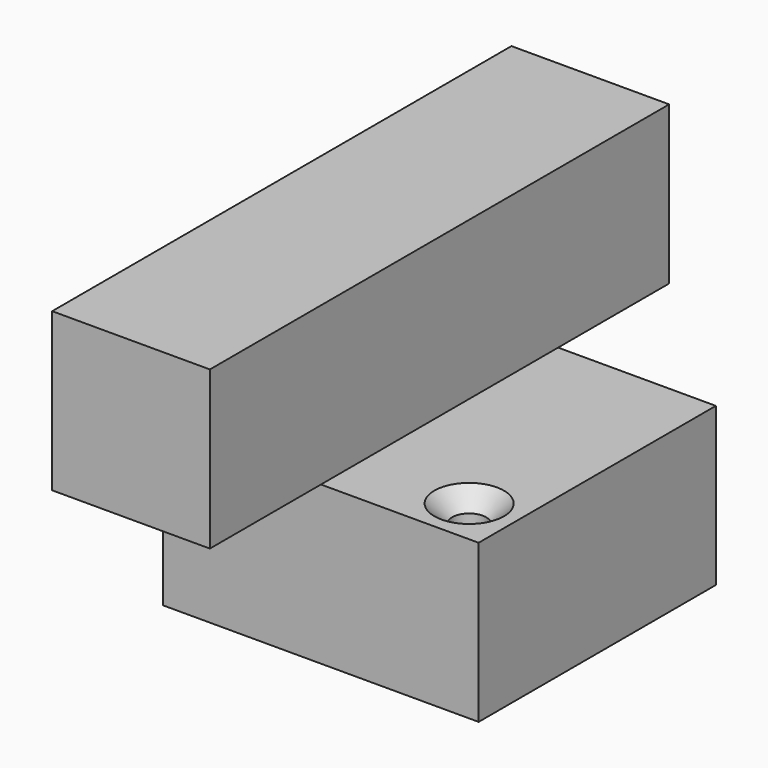
from build123d import *

# Parameters (mm, degrees)
F1_W           = 25.4
F1_H           = 25.4
F3_DEPTH       = 46.228
F4_DEPTH       = 23.876
F6_D           = 11
F6_DEPTH       = 12.7
F6_CSINK_D     = 22.4
F6_CSINK_ANGLE = 90
F6_TIP         = 3.3047334047
F8_D           = 5.5
F8_DEPTH       = 12.7
F8_CSINK_D     = 11.2
F8_CSINK_ANGLE = 90
F8_TIP         = 1.6523667023


with BuildPart() as f3:
    # F1 (on face) → F3 (new body, symmetric)
    with BuildSketch(Plane.XZ):
        with Locations((-12.7, 25.4)):
            Rectangle(F1_W, F1_H)
    extrude(amount=F3_DEPTH, both=True)

    # F2 (on face) → F4 (join, symmetric)
    with BuildSketch(Plane.XZ):
        Polygon((0, 12.7), (-25.4, 12.7), (-25.4, -12.7), (25.4, -12.7), (25.4, 12.7), align=None)
    extrude(amount=F4_DEPTH, both=True)

    # F6
    with Locations(Plane(origin=(0, 0, -12.7), x_dir=(1, 0, 0), z_dir=(0, 0, -1))):
        with Locations((0, -1.524)):
            CounterSinkHole(F6_D / 2, F6_CSINK_D / 2, depth=F6_DEPTH, counter_sink_angle=F6_CSINK_ANGLE)
            with Locations((0, 0, -(F6_DEPTH + F6_TIP / 2))):  # 118° drill point
                Cone(0, F6_D / 2, F6_TIP, mode=Mode.SUBTRACT)

    # F8
    with Locations(Plane.XY.offset(12.7)):
        with Locations((17.78, -16.256)):
            CounterSinkHole(F8_D / 2, F8_CSINK_D / 2, depth=F8_DEPTH, counter_sink_angle=F8_CSINK_ANGLE)
            with Locations((0, 0, -(F8_DEPTH + F8_TIP / 2))):  # 118° drill point
                Cone(0, F8_D / 2, F8_TIP, mode=Mode.SUBTRACT)


solid = f3.part
